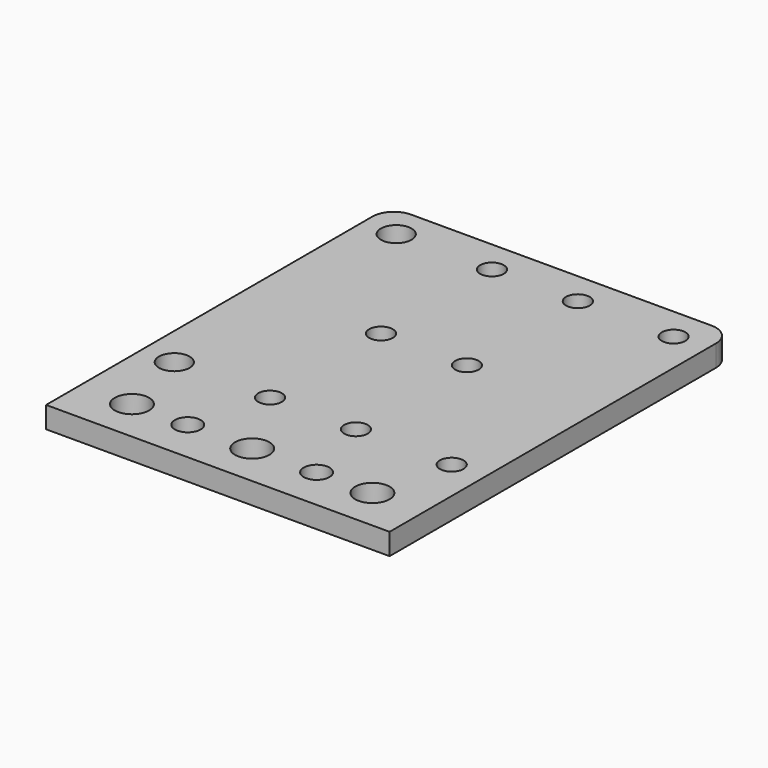
from build123d import *

# Parameters (mm, degrees)
F0_R     = 4
F0_R_2   = 3
F0_R_3   = 3.5685
F0_R_4   = 2.75
F1_DEPTH = 5


with BuildPart() as f1:
    # F0 (on Top) → F1 (new body)
    with BuildSketch(Plane.XY):
        with BuildLine():
            Line((40, 0), (5, 0))
            ThreePointArc((5, 0), (1.464466, -1.464466), (0, -5))
            Line((0, -5), (0, -100))
            Line((0, -100), (80, -100))
            Line((80, -100), (80, -5))
            ThreePointArc((80, -5), (78.535534, -1.464466), (75, 0))
            Line((75, 0), (40, 0))
        make_face()
        with Locations((12, -90)):
            Circle(F0_R, mode=Mode.SUBTRACT)
        with Locations((25, -90)):
            Circle(F0_R_2, mode=Mode.SUBTRACT)
        with Locations((7.7, -72.3)):
            Circle(F0_R_3, mode=Mode.SUBTRACT)
        with Locations((30, -72.3)):
            Circle(F0_R_4, mode=Mode.SUBTRACT)
        with Locations((40, -90)):
            Circle(F0_R, mode=Mode.SUBTRACT)
        with Locations((55, -90)):
            Circle(F0_R_2, mode=Mode.SUBTRACT)
        with Locations((68, -90)):
            Circle(F0_R, mode=Mode.SUBTRACT)
        with Locations((50, -72.3)):
            Circle(F0_R_4, mode=Mode.SUBTRACT)
        with Locations((72.3, -72.3)):
            Circle(F0_R_4, mode=Mode.SUBTRACT)
        with Locations((30, -40)):
            Circle(F0_R_4, mode=Mode.SUBTRACT)
        with Locations((7.7, -7.7)):
            Circle(F0_R_3, mode=Mode.SUBTRACT)
        with Locations((30, -7.7)):
            Circle(F0_R_4, mode=Mode.SUBTRACT)
        with Locations((50, -40)):
            Circle(F0_R_4, mode=Mode.SUBTRACT)
        with Locations((50, -7.7)):
            Circle(F0_R_4, mode=Mode.SUBTRACT)
        with Locations((72.3, -7.7)):
            Circle(F0_R_4, mode=Mode.SUBTRACT)
    extrude(amount=F1_DEPTH)


solid = f1.part
